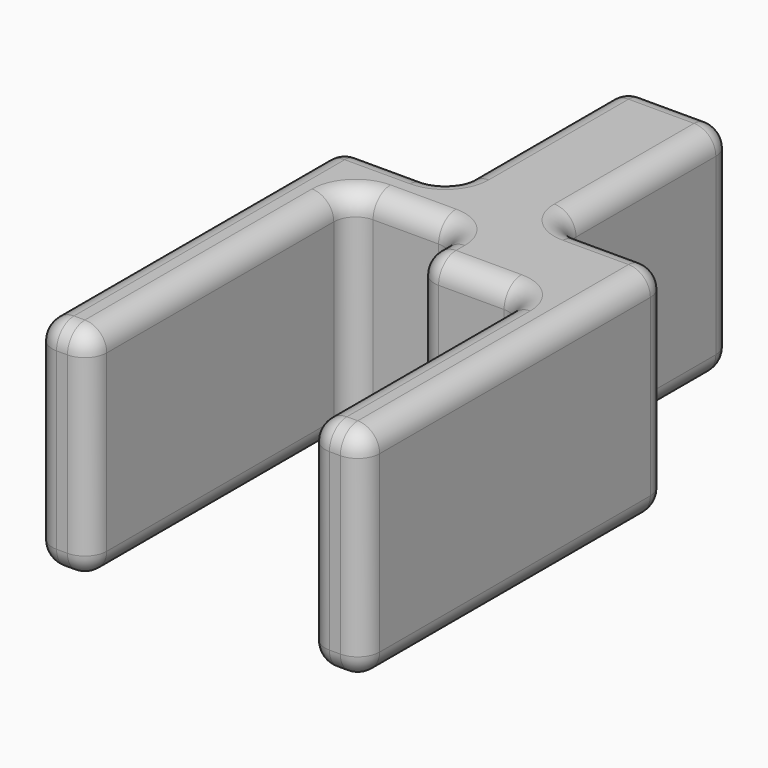
from build123d import *

# Parameters (mm, degrees)
PAD_DEPTH = 40
FILLET_R  = 4


with BuildPart() as part:
    # Sketch (on XY_Plane of Origin) → Pad (new body)
    with BuildSketch(Plane.XY):
        Polygon((0, 0), (0, 70), (20, 70), (20, 110), (40, 110), (40, 70), (60, 70), (60, 0), (50, 0), (50, 50), (30, 50), (30, 60), (10, 60), (10, 0), align=None)
    extrude(amount=PAD_DEPTH)

    # Fillet
    fillet_edges = [part.edges().sort_by_distance(p)[0] for p in [
        (0, 0, 20),
        (0, 70, 20),
        (0, 35, 0),
        (0, 35, 40),
        (20, 70, 20),
        (10, 70, 0),
        (10, 70, 40),
        (20, 110, 20),
        (20, 90, 0),
        (20, 90, 40),
        (40, 110, 20),
        (30, 110, 0),
        (30, 110, 40),
        (40, 70, 20),
        (40, 90, 0),
        (40, 90, 40),
        (60, 70, 20),
        (50, 70, 0),
        (50, 70, 40),
        (60, 0, 20),
        (60, 35, 0),
        (60, 35, 40),
        (50, 0, 20),
        (55, 0, 0),
        (55, 0, 40),
        (50, 50, 20),
        (50, 25, 0),
        (50, 25, 40),
        (30, 50, 20),
        (40, 50, 0),
        (40, 50, 40),
        (30, 60, 20),
        (30, 55, 0),
        (30, 55, 40),
        (10, 60, 20),
        (20, 60, 0),
        (20, 60, 40),
        (10, 0, 20),
        (10, 30, 0),
        (10, 30, 40),
        (5, 0, 0),
        (5, 0, 40),
    ]]
    fillet(fillet_edges, radius=FILLET_R)


solid = part.part
